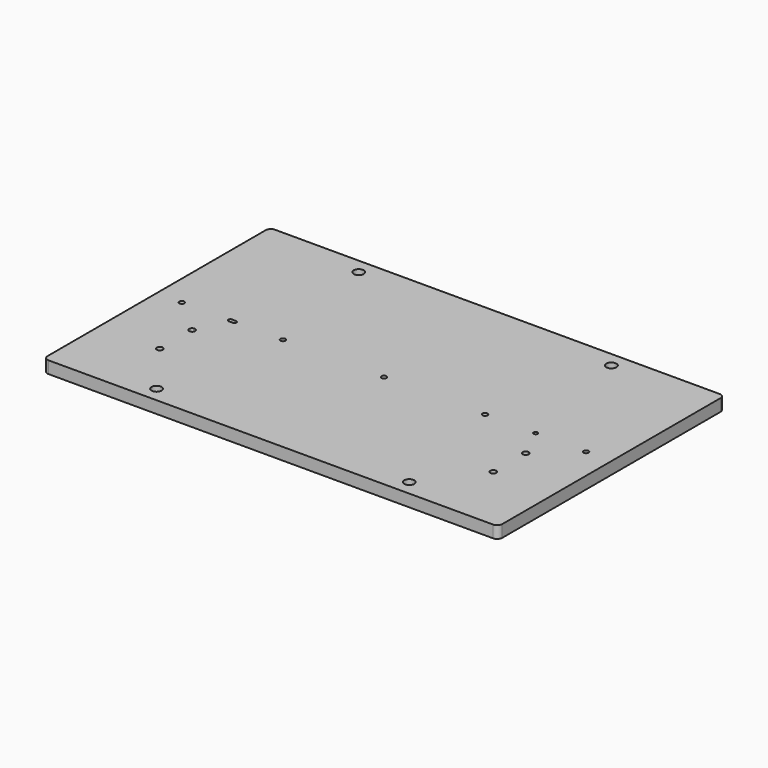
from build123d import *

# Parameters (mm, degrees)
F0_R     = 2.5
F0_R_2   = 5
F0_R_3   = 2
F0_W     = 60
F0_H     = 15
F1_DEPTH = 12
F2_R     = 10
F2_R_2   = 9.5
F3_DEPTH = 6
F4_R     = 5
F5_SIZE  = 1


with BuildPart() as f1:
    # F0 (on Top) → F1 (new body)
    with BuildSketch(Plane.XY):
        with BuildLine():
            Line((-165, 140), (-225, 140))
            Line((-225, 140), (-225, -125))
            Line((-225, -125), (-165, -125))
            Line((-165, -125), (-165, -74))
            ThreePointArc((-165, -74), (-168, -71), (-165, -68))
            Line((-165, -68), (-165, -34))
            ThreePointArc((-165, -34), (-168, -31), (-165, -28))
            Line((-165, -28), (-165, 140))
        make_face()
        with Locations((-200, 0)):
            Circle(F0_R, mode=Mode.SUBTRACT)
        with BuildLine():
            Line((165, 140), (-165, 140))
            Line((-165, 140), (-165, -28))
            ThreePointArc((-165, -28), (-162.87868, -28.87868), (-162, -31))
            ThreePointArc((-162, -31), (-162.87868, -33.12132), (-165, -34))
            Line((-165, -34), (-165, -68))
            ThreePointArc((-165, -68), (-162.87868, -68.87868), (-162, -71))
            ThreePointArc((-162, -71), (-162.87868, -73.12132), (-165, -74))
            Line((-165, -74), (-165, -125))
            Line((-165, -125), (-130, -125))
            ThreePointArc((-130, -125), (-125, -120), (-120, -125))
            Line((-120, -125), (120, -125))
            ThreePointArc((120, -125), (125, -120), (130, -125))
            Line((130, -125), (165, -125))
            Line((165, -125), (165, -74))
            ThreePointArc((165, -74), (162, -71), (165, -68))
            Line((165, -68), (165, -34))
            ThreePointArc((165, -34), (162, -31), (165, -28))
            Line((165, -28), (165, 140))
        make_face()
        with BuildLine():
            ThreePointArc((-148, 2), (-146, 0), (-148, -2))
            Line((-148, -2), (-152, -2))
            ThreePointArc((-152, -2), (-154, 0), (-152, 2))
            Line((-152, 2), (-148, 2))
        make_face(mode=Mode.SUBTRACT)
        with Locations((-100, 0)):
            Circle(F0_R, mode=Mode.SUBTRACT)
        with Locations((-125, 125)):
            Circle(F0_R_2, mode=Mode.SUBTRACT)
        Circle(F0_R, mode=Mode.SUBTRACT)
        with Locations((100, 0)):
            Circle(F0_R, mode=Mode.SUBTRACT)
        with Locations((150, 0)):
            Circle(F0_R_3, mode=Mode.SUBTRACT)
        with Locations((125, 125)):
            Circle(F0_R_2, mode=Mode.SUBTRACT)
        with Locations((-195, -132.5)):
            Rectangle(F0_W, F0_H)
        with BuildLine():
            Line((225, 140), (165, 140))
            Line((165, 140), (165, -28))
            ThreePointArc((165, -28), (167.12132, -28.87868), (168, -31))
            ThreePointArc((168, -31), (167.12132, -33.12132), (165, -34))
            Line((165, -34), (165, -68))
            ThreePointArc((165, -68), (167.12132, -68.87868), (168, -71))
            ThreePointArc((168, -71), (167.12132, -73.12132), (165, -74))
            Line((165, -74), (165, -125))
            Line((165, -125), (225, -125))
            Line((225, -125), (225, 140))
        make_face()
        with Locations((200, 0)):
            Circle(F0_R, mode=Mode.SUBTRACT)
        with BuildLine():
            Line((-130, -125), (-165, -125))
            Line((-165, -125), (-165, -140))
            Line((-165, -140), (165, -140))
            Line((165, -140), (165, -125))
            Line((165, -125), (130, -125))
            ThreePointArc((130, -125), (125, -130), (120, -125))
            Line((120, -125), (-120, -125))
            ThreePointArc((-120, -125), (-125, -130), (-130, -125))
        make_face()
        with Locations((195, -132.5)):
            Rectangle(F0_W, F0_H)
    extrude(amount=F1_DEPTH)

    # F2 (on face) → F3 (cut)
    with BuildSketch(Plane(origin=(0, 0, 0), x_dir=(1, 0, 0), z_dir=(0, 0, -1))):
        with Locations((-165, 71)):
            Circle(F2_R)
        with Locations((165, 71)):
            Circle(F2_R)
        with Locations((165, 31)):
            Circle(F2_R)
        with Locations((-165, 31)):
            Circle(F2_R)
        with Locations((-100, 0)):
            Circle(F2_R_2)
        with Locations((-200, 0)):
            Circle(F2_R_2)
        with Locations((100, 0)):
            Circle(F2_R_2)
        Circle(F2_R_2)
        with Locations((200, 0)):
            Circle(F2_R_2)
    extrude(amount=-F3_DEPTH, mode=Mode.SUBTRACT)

    # F4
    f4_edges = [f1.edges().sort_by_distance(p)[0] for p in [
        (-225, -140, 6),
        (225, -140, 6),
        (225, 140, 6),
        (-225, 140, 6),
    ]]
    fillet(f4_edges, radius=F4_R)

    # F5
    f5_edges = [f1.edges().sort_by_distance(p)[0] for p in [
        (197.5, 0, 6),
        (97.5, 0, 6),
        (-202.5, 0, 6),
        (-102.5, 0, 6),
        (-2.5, 0, 6),
        (165, -68, 6),
        (165, -28, 6),
        (120, 125, 0),
        (-130, 125, 0),
        (-165, -28, 6),
        (-165, -68, 6),
    ]]
    chamfer(f5_edges, length=F5_SIZE)


solid = f1.part
